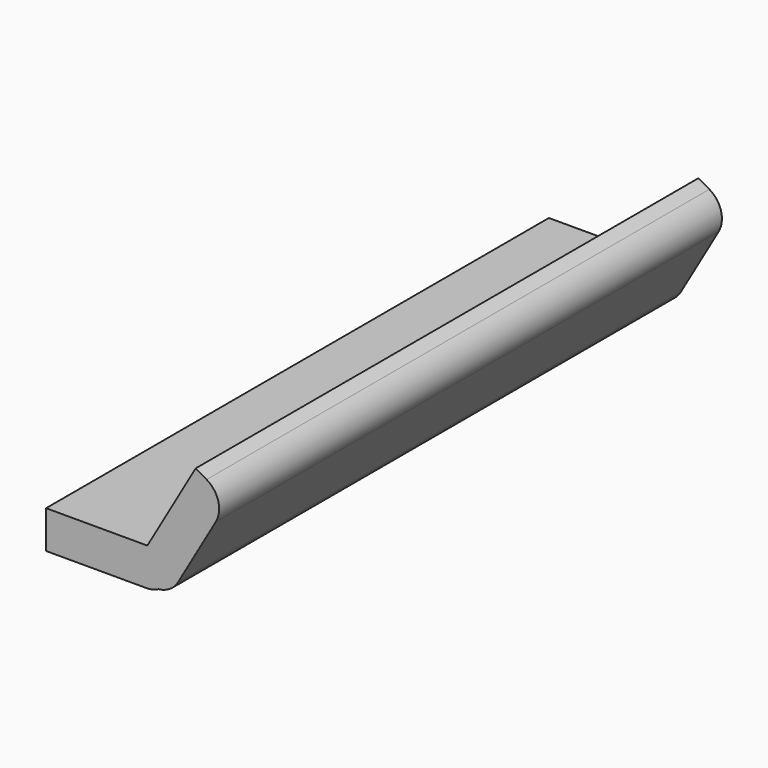
from build123d import *

# Parameters (mm, degrees)
BOX001_W        = 10
BOX001_H        = 50
BOX001_DEPTH    = 3
FILLET001_R     = 2
BOX_W           = 10
BOX_H           = 50
BOX_DEPTH       = 3
BOX_PITCH_ANGLE = -60
FILLET_R        = 2


with BuildPart() as fillet001:
    # Box001 → Box001 (new body)
    with BuildSketch(Plane(origin=(20, -60, -60.5), x_dir=(1, 0, 0), z_dir=(0, 0, 1))):
        with Locations((5, 25)):
            Rectangle(BOX001_W, BOX001_H)
    extrude(amount=BOX001_DEPTH)

    # Fillet001
    fillet001_edges = [fillet001.edges().sort_by_distance(p)[0] for p in [
        (30, -35, -60.5),
    ]]
    fillet(fillet001_edges, radius=FILLET001_R)


with BuildPart() as obj1:
    # Box → Box (new body)
    with BuildSketch(Plane.XY):
        with Locations((5, 25)):
            Rectangle(BOX_W, BOX_H)
    extrude(amount=BOX_DEPTH)


with BuildPart() as obj1_1:
    # Box pitch: moved
    add(obj1.part.rotate(Axis((0, 0, 0), (0, 1, 0)), BOX_PITCH_ANGLE))


with BuildPart() as obj1_2:
    # Box placement: moved
    add(obj1_1.part.moved(Location((30, -60, -60.5))))

    # Fillet
    fillet_edges = [obj1_2.edges().sort_by_distance(p)[0] for p in [
        (30, -35, -60.5),
        (35, -35, -51.839746),
    ]]
    fillet(fillet_edges, radius=FILLET_R)


with BuildPart() as obj1_3:
    # Fillet placement: moved
    add(obj1_2.part.moved(Location((-0.5, 0, -0.5))))

    # Fusion: union Fillet001
    add(fillet001.part)


solid = obj1_3.part
